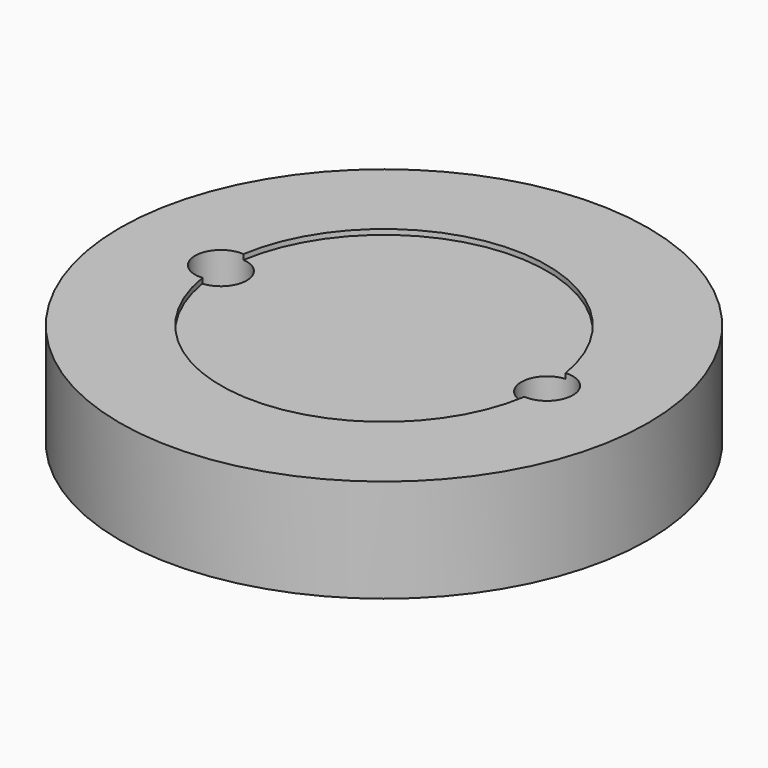
from build123d import *

# Parameters (mm, degrees)
F0_R     = 32.5233232703
F1_DEPTH = 12.7
F2_R     = 19.4795835543
F3_DEPTH = 9.525
F4_SIZE2 = 7.62
F4_SIZE  = 6.35
F5_R     = 20.082572942
F6_DEPTH = 0.635
F8_DEPTH = 21.591
F9_DEPTH = 19.304


with BuildPart() as f1:
    # F0 (on Top) → F1 (new body)
    with BuildSketch(Plane.XY):
        with Locations((-16.1171220243, 12.0878415182)):
            Circle(F0_R)
    extrude(amount=F1_DEPTH)

    # F2 (on face) → F3 (join)
    with BuildSketch(Plane(origin=(0, 0, 0), x_dir=(1, 0, 0), z_dir=(0, 0, -1))):
        with Locations((-16.1171220243, -12.0878415182)):
            Circle(F2_R)
    extrude(amount=F3_DEPTH)

    # F4
    f4_edges = [f1.edges().sort_by_distance(p)[0] for p in [
        (-35.596706, 12.087842, -9.525),
    ]]
    f4_side = f1.faces().sort_by_distance((-16.117122, 12.087842, -9.525))[0]
    chamfer(f4_edges, length=F4_SIZE, length2=F4_SIZE2, reference=f4_side)

    # F5 (on face) → F6 (cut)
    with BuildSketch(Plane.XY.offset(12.7)):
        with Locations((-16.1171220243, 12.0878415182)):
            Circle(F5_R)
    extrude(amount=-F6_DEPTH, mode=Mode.SUBTRACT)

    # F7 (on face) → F8 (cut, through all)
    with BuildSketch(Plane.XY.offset(12.065)):
        with BuildLine():
            ThreePointArc((-39.3746949662, 12.0878415182), (-36.1996949662, 8.9128415182), (-33.0246949662, 12.0878415182))
            Line((-33.0246949662, 12.0878415182), (-39.3746949662, 12.0878415182))
        make_face()
        with BuildLine():
            Line((-39.3746949662, 12.0878415182), (-33.0246949662, 12.0878415182))
            ThreePointArc((-33.0246949662, 12.0878415182), (-36.1996949662, 15.2628415182), (-39.3746949662, 12.0878415182))
        make_face()
        with BuildLine():
            ThreePointArc((7.1404509177, 12.0878415182), (3.9654509177, 15.2628415182), (0.7904509177, 12.0878415182))
            Line((0.7904509177, 12.0878415182), (7.1404509177, 12.0878415182))
        make_face()
        with BuildLine():
            Line((7.1404509177, 12.0878415182), (0.7904509177, 12.0878415182))
            ThreePointArc((0.7904509177, 12.0878415182), (3.9654509177, 8.9128415182), (7.1404509177, 12.0878415182))
        make_face()
    extrude(amount=-F8_DEPTH, mode=Mode.SUBTRACT)

    # F7 (on face) → F9 (cut)
    with BuildSketch(Plane.XY.offset(12.065)):
        with BuildLine():
            ThreePointArc((-39.3746949662, 12.0878415182), (-36.1996949662, 8.9128415182), (-33.0246949662, 12.0878415182))
            Line((-33.0246949662, 12.0878415182), (-39.3746949662, 12.0878415182))
        make_face()
        with BuildLine():
            Line((-39.3746949662, 12.0878415182), (-33.0246949662, 12.0878415182))
            ThreePointArc((-33.0246949662, 12.0878415182), (-36.1996949662, 15.2628415182), (-39.3746949662, 12.0878415182))
        make_face()
        with BuildLine():
            ThreePointArc((7.1404509177, 12.0878415182), (3.9654509177, 15.2628415182), (0.7904509177, 12.0878415182))
            Line((0.7904509177, 12.0878415182), (7.1404509177, 12.0878415182))
        make_face()
        with BuildLine():
            Line((7.1404509177, 12.0878415182), (0.7904509177, 12.0878415182))
            ThreePointArc((0.7904509177, 12.0878415182), (3.9654509177, 8.9128415182), (7.1404509177, 12.0878415182))
        make_face()
    extrude(amount=F9_DEPTH, mode=Mode.SUBTRACT)


solid = f1.part
